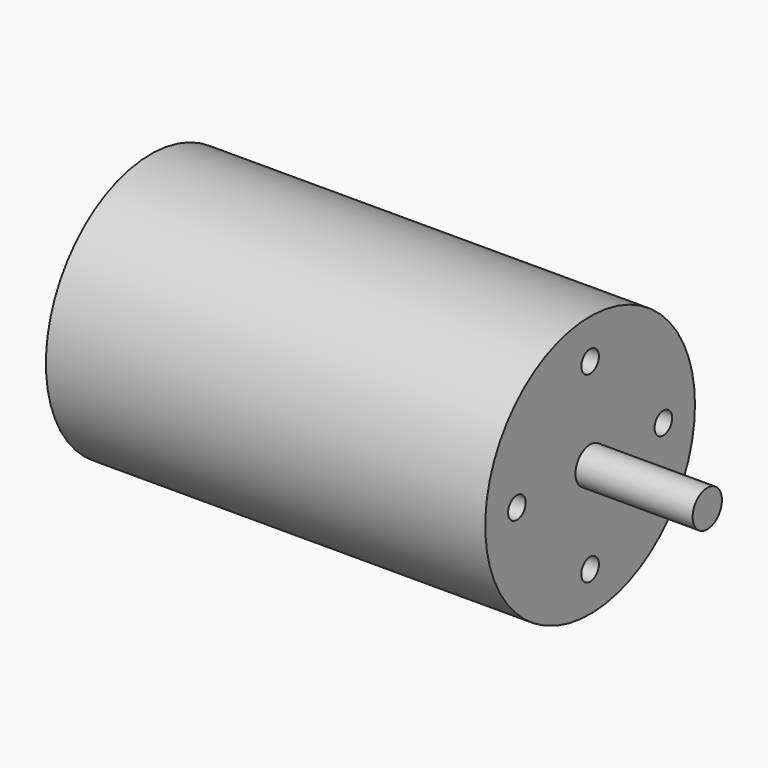
from build123d import *

# Parameters (mm, degrees)
F0_R     = 17.9
F1_DEPTH = 30
F2_R     = 2.5
F3_DEPTH = 16
F4_R     = 1.5
F5_DEPTH = 6


with BuildPart() as f1:
    # F0 (on Right) → F1 (new body, symmetric)
    with BuildSketch(Plane.YZ):
        Circle(F0_R)
    extrude(amount=F1_DEPTH, both=True)

    # F2 (on face) → F3 (join)
    with BuildSketch(Plane.YZ.offset(30)):
        Circle(F2_R)
    extrude(amount=F3_DEPTH)

    # F4 (on face) → F5 (cut)
    with BuildSketch(Plane.YZ.offset(30)):
        with Locations((0, 12.4968)):
            Circle(F4_R)
        with Locations((-12.4968, 0)):
            Circle(F4_R)
        with Locations((0, -12.4968)):
            Circle(F4_R)
        with Locations((12.4968, 0)):
            Circle(F4_R)
    extrude(amount=-F5_DEPTH, mode=Mode.SUBTRACT)


with BuildPart() as f6_1:
    # F6: copy of F1
    add(f1.part)


solid = Compound([f1.part, f6_1.part])
